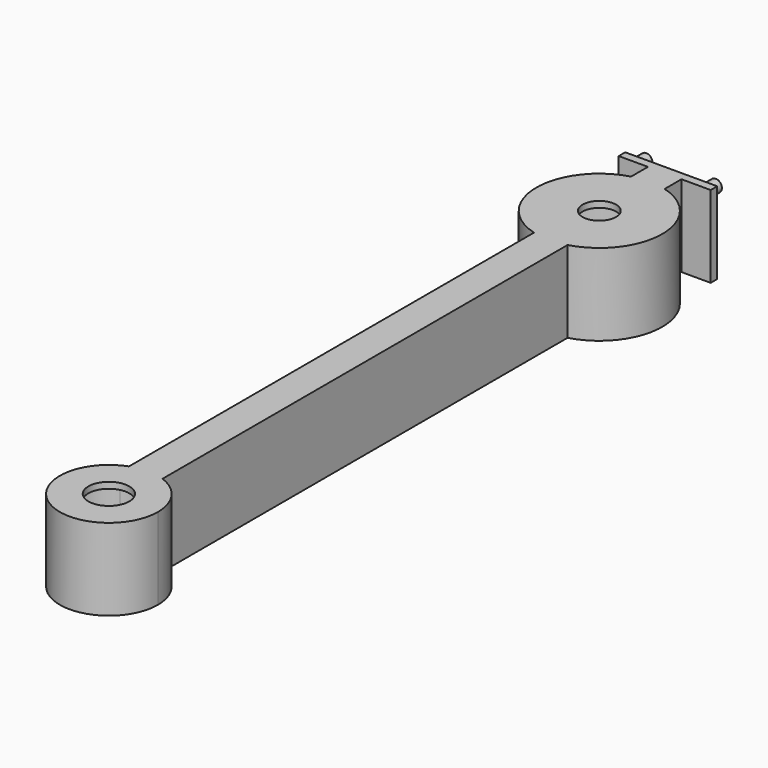
from build123d import *

# Parameters (mm, degrees)
F0_R      = 15.4
F0_R_2    = 12.9
F1_DEPTH  = 20
F2_DEPTH  = 18.5
F3_R      = 4.1
F4_DEPTH  = 25
F6_DEPTH  = 20
F7_R      = 9.5
F7_R_2    = 5
F8_DEPTH  = 1.5
F9_DEPTH  = 20
F10_W     = 8.4
F10_H     = 20
F10_W_2   = 8.2
F11_DEPTH = 2
F12_R     = 1.5
F13_DEPTH = 3
F14_DEPTH = 1.25
F15_DEPTH = 1.25


with BuildPart() as f1:
    # F0 (on Top) → F1 (new body)
    with BuildSketch(Plane.XY):
        Circle(F0_R)
        Circle(F0_R_2, mode=Mode.SUBTRACT)
        Circle(F0_R_2)
    extrude(amount=F1_DEPTH)

    # F0 (on Top) → F2 (cut)
    with BuildSketch(Plane.XY):
        Circle(F0_R_2)
    extrude(amount=F2_DEPTH, mode=Mode.SUBTRACT)

    # F3 (on face) → F4 (cut)
    with BuildSketch(Plane.XY.offset(20)):
        Circle(F3_R)
    extrude(amount=-F4_DEPTH, mode=Mode.SUBTRACT)

    # F5 (on face) → F6 (join, through all)
    with BuildSketch(Plane.XY.offset(20)):
        with BuildLine():
            ThreePointArc((4.1, -14.8441907829), (0, -15.4), (-4.1, -14.8441907829))
            Line((-4.1, -14.8441907829), (-4.1, -138.7221455941))
            ThreePointArc((-4.1, -138.7221455941), (0, -138), (4.1, -138.7221455941))
            Line((4.1, -138.7221455941), (4.1, -14.8441907829))
        make_face()
        with BuildLine():
            ThreePointArc((4.1, -138.7221455941), (0, -138), (-4.1, -138.7221455941))
            Line((-4.1, -138.7221455941), (-4.1, -141.4302858857))
            ThreePointArc((-4.1, -141.4302858857), (0, -140.5), (4.1, -141.4302858857))
            Line((4.1, -141.4302858857), (4.1, -138.7221455941))
        make_face()
        with BuildLine():
            Line((-4.1, -141.4302858857), (-4.1, -138.7221455941))
            ThreePointArc((-4.1, -138.7221455941), (-6.8847657912, -159.8285299002), (12, -150))
            ThreePointArc((12, -150), (9.8285299002, -143.1152342088), (4.1, -138.7221455941))
            Line((4.1, -138.7221455941), (4.1, -141.4302858857))
            ThreePointArc((4.1, -141.4302858857), (8.037412519, -144.9354170952), (9.5, -150))
            ThreePointArc((9.5, -150), (-5.0645829048, -158.037412519), (-4.1, -141.4302858857))
        make_face()
    extrude(amount=-F6_DEPTH)

    # F7 (on face) → F8 (join, through all)
    with BuildSketch(Plane.XY.offset(20)):
        with Locations((0, -150)):
            Circle(F7_R)
        with Locations((0, -150)):
            Circle(F7_R_2, mode=Mode.SUBTRACT)
    extrude(amount=-F8_DEPTH)

    # F5 (on face) → F9 (join, through all)
    with BuildSketch(Plane.XY.offset(20)):
        with BuildLine():
            Line((-4.1, 20), (-4.1, 14.8441907829))
            ThreePointArc((-4.1, 14.8441907829), (0, 15.4), (4.1, 14.8441907829))
            Line((4.1, 14.8441907829), (4.1, 20))
            Line((4.1, 20), (-4.1, 20))
        make_face()
    extrude(amount=-F9_DEPTH)

    # F10 (on face) → F11 (join)
    with BuildSketch(Plane(origin=(0, 20, 0), x_dir=(-1, 0, 0), z_dir=(0, 1, 0))):
        with Locations((-8.3, 10)):
            Rectangle(F10_W, F10_H)
        with Locations((8.3, 10)):
            Rectangle(F10_W, F10_H)
        with Locations((0, 10)):
            Rectangle(F10_W_2, F10_H)
    extrude(amount=F11_DEPTH)

    # F12 (on face) → F13 (join)
    with BuildSketch(Plane(origin=(0, 22, 0), x_dir=(-1, 0, 0), z_dir=(0, 1, 0))):
        with Locations((-8.5, 18)):
            Circle(F12_R)
        with Locations((8.5, 18)):
            Circle(F12_R)
    extrude(amount=F13_DEPTH)

    # F14 (cut): a face of the model
    f14_faces = [f1.faces().sort_by_distance(p)[0] for p in [
        (12.5, 21, 10),
    ]]
    extrude(f14_faces, amount=-F14_DEPTH, mode=Mode.SUBTRACT)

    # F15 (cut): a face of the model
    f15_faces = [f1.faces().sort_by_distance(p)[0] for p in [
        (-12.5, 21, 10),
    ]]
    extrude(f15_faces, amount=-F15_DEPTH, mode=Mode.SUBTRACT)


solid = f1.part
